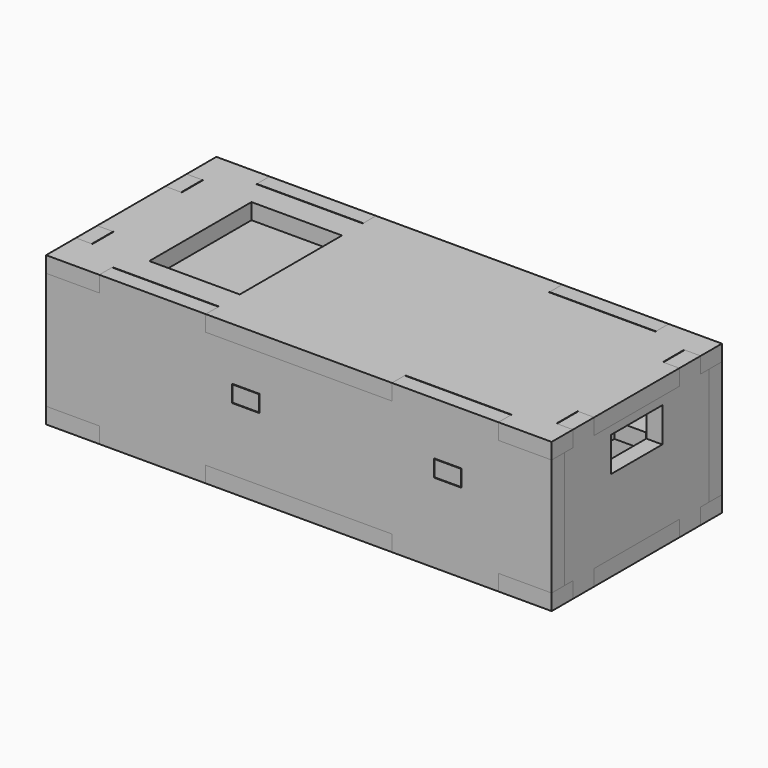
from build123d import *

# Parameters (mm, degrees)
F0_W      = 48
F0_H      = 25
F0_R      = 1.5
F1_DEPTH  = 1.2
F3_W      = 27
F3_H      = 27
F3_R      = 1.5
F4_DEPTH  = 1.2
F5_W      = 19
F5_H      = 27
F6_DEPTH  = 5.8
F7_W      = 17
F7_H      = 24
F8_DEPTH  = 3
F9_R      = 1.55
F9_W      = 38.9
F9_H      = 3
F10_DEPTH = 3
F13_DEPTH = 3
F14_W     = 5.2
F14_H     = 3.2
F15_DEPTH = 3
F16_W     = 12
F16_H     = 6.5
F17_DEPTH = 3
F19_DEPTH = 3


with BuildPart() as f1:
    # F0 (on Top) → F1 (new body)
    with BuildSketch(Plane.XY):
        Rectangle(F0_W, F0_H)
        with Locations((-22, -10.5)):
            Circle(F0_R, mode=Mode.SUBTRACT)
        with Locations((22, -10.5)):
            Circle(F0_R, mode=Mode.SUBTRACT)
        with Locations((-22, 10.5)):
            Circle(F0_R, mode=Mode.SUBTRACT)
        with Locations((22, 10.5)):
            Circle(F0_R, mode=Mode.SUBTRACT)
    extrude(amount=F1_DEPTH)

    # F9 (on Top) → F10 (join)
    with BuildSketch(Plane.XY):
        Polygon((-59.9, 16.9), (-59.9, -16.9), (-28, -16.9), (-28, -20), (-23, -20), (-23, -16.9), (10, -16.9), (10, -20), (15, -20), (15, -16.9), (28.9, -16.9), (28.9, -6), (23, -6), (23, 6), (28.9, 6), (28.9, 16.9), (15, 16.9), (15, 20), (10, 20), (10, 16.9), (-23, 16.9), (-23, 20), (-28, 20), (-28, 16.9), align=None)
        with Locations((-53, -11.5)):
            Circle(F9_R, mode=Mode.SUBTRACT)
        with Locations((-30, -11.5)):
            Circle(F9_R, mode=Mode.SUBTRACT)
        with Locations((-22, -10.5)):
            Circle(F9_R, mode=Mode.SUBTRACT)
        with Locations((0, -11.5)):
            Rectangle(F9_W, F9_H, mode=Mode.SUBTRACT)
        with Locations((22, -10.5)):
            Circle(F9_R, mode=Mode.SUBTRACT)
        Polygon((-50.5, -8), (-56, -8), (-56, 8), (-50.5, 8), (-50.5, 13), (-32.5, 13), (-32.5, 8), (-27, 8), (-27, -8), (-32.5, -8), (-32.5, -13), (-50.5, -13), align=None, mode=Mode.SUBTRACT)
        with Locations((-53, 11.5)):
            Circle(F9_R, mode=Mode.SUBTRACT)
        with Locations((-30, 11.5)):
            Circle(F9_R, mode=Mode.SUBTRACT)
        with Locations((-22, 10.5)):
            Circle(F9_R, mode=Mode.SUBTRACT)
        with Locations((0, 11.5)):
            Rectangle(F9_W, F9_H, mode=Mode.SUBTRACT)
        with Locations((22, 10.5)):
            Circle(F9_R, mode=Mode.SUBTRACT)
    extrude(amount=-F10_DEPTH)


with BuildPart() as f4:
    # F3 (on offset) → F4 (new body)
    with BuildSketch(Plane.XY):
        with Locations((-41.5, 0)):
            Rectangle(F3_W, F3_H)
        with Locations((-53, -11.5)):
            Circle(F3_R, mode=Mode.SUBTRACT)
        with Locations((-30, -11.5)):
            Circle(F3_R, mode=Mode.SUBTRACT)
        with Locations((-53, 11.5)):
            Circle(F3_R, mode=Mode.SUBTRACT)
        with Locations((-30, 11.5)):
            Circle(F3_R, mode=Mode.SUBTRACT)
    extrude(amount=F4_DEPTH)

    # F5 (on face) → F6 (join)
    with BuildSketch(Plane.XY.offset(1.2)):
        with Locations((-41.5, 0)):
            Rectangle(F5_W, F5_H)
    extrude(amount=F6_DEPTH)


with BuildPart() as f8:
    # F7 (on face) → F8 (new body)
    with BuildSketch(Plane.XY.offset(7)):
        Polygon((-53, 20), (-63, 20), (-63, 13), (-59.9, 13), (-59.9, 8), (-63, 8), (-63, -8), (-59.9, -8), (-59.9, -13), (-63, -13), (-63, -20), (-53, -20), (-53, -16.9), (-33, -16.9), (-33, -20), (2, -20), (2, -16.9), (22, -16.9), (22, -20), (32, -20), (32, -15), (28.9, -15), (28.9, -10), (32, -10), (32, 10), (28.9, 10), (28.9, 15), (32, 15), (32, 20), (22, 20), (22, 16.9), (2, 16.9), (2, 20), (-33, 20), (-33, 16.9), (-53, 16.9), align=None)
        with Locations((-41.5, 0)):
            Rectangle(F7_W, F7_H, mode=Mode.SUBTRACT)
    extrude(amount=F8_DEPTH)


with BuildPart() as f13:
    # F12 (on offset) → F13 (new body)
    with BuildSketch(Plane.XY.offset(-15)):
        Polygon((22, -16.9), (22, -20), (32, -20), (32, -15), (28.9, -15), (28.9, -10), (32, -10), (32, 10), (28.9, 10), (28.9, 15), (32, 15), (32, 20), (22, 20), (22, 16.9), (2, 16.9), (2, 20), (-33, 20), (-33, 16.9), (-53, 16.9), (-53, 20), (-63, 20), (-63, 13), (-59.9, 13), (-59.9, 8), (-63, 8), (-63, -8), (-59.9, -8), (-59.9, -13), (-63, -13), (-63, -20), (-53, -20), (-53, -16.9), (-33, -16.9), (-33, -20), (2, -20), (2, -16.9), align=None)
    extrude(amount=-F13_DEPTH)


with BuildPart() as f15:
    # F14 (on face) → F15 (new body)
    with BuildSketch(Plane.XZ.offset(20)):
        Polygon((-33, 10), (-53, 10), (-53, 7), (-63, 7), (-63, -15), (-53, -15), (-53, -18), (-33, -18), (-33, -15), (2, -15), (2, -18), (22, -18), (22, -15), (32, -15), (32, 7), (22, 7), (22, 10), (2, 10), (2, 7), (-33, 7), align=None)
        with Locations((-25.5, -1.5)):
            Rectangle(F14_W, F14_H, mode=Mode.SUBTRACT)
        with Locations((12.5, -1.5)):
            Rectangle(F14_W, F14_H, mode=Mode.SUBTRACT)
    extrude(amount=-F15_DEPTH)


with BuildPart() as f17:
    # F16 (on face) → F17 (new body)
    with BuildSketch(Plane.YZ.offset(32)):
        Polygon((-15, 7), (-17, 7), (-17, -15), (-15, -15), (-15, -18), (-10, -18), (-10, -15), (10, -15), (10, -18), (15, -18), (15, -15), (17, -15), (17, 7), (15, 7), (15, 10), (10, 10), (10, 7), (-10, 7), (-10, 10), (-15, 10), align=None)
        with Locations((0, 2.25)):
            Rectangle(F16_W, F16_H, mode=Mode.SUBTRACT)
    extrude(amount=-F17_DEPTH)


with BuildPart() as f19:
    # F18 (on face) → F19 (new body)
    with BuildSketch(Plane(origin=(-63, 0, 0), x_dir=(0, -1, 0), z_dir=(-1, 0, 0))):
        Polygon((-13, 7), (-17, 7), (-17, -15), (-13, -15), (-13, -18), (-8, -18), (-8, -15), (8, -15), (8, -18), (13, -18), (13, -15), (17, -15), (17, 7), (13, 7), (13, 10), (8, 10), (8, 7), (-8, 7), (-8, 10), (-13, 10), align=None)
    extrude(amount=-F19_DEPTH)


with BuildPart() as f20_1:
    # F20: instance of F15
    add(f15.part.mirror(Plane.XZ))


solid = Compound([f1.part, f4.part, f8.part, f13.part, f15.part, f17.part, f19.part, f20_1.part])
